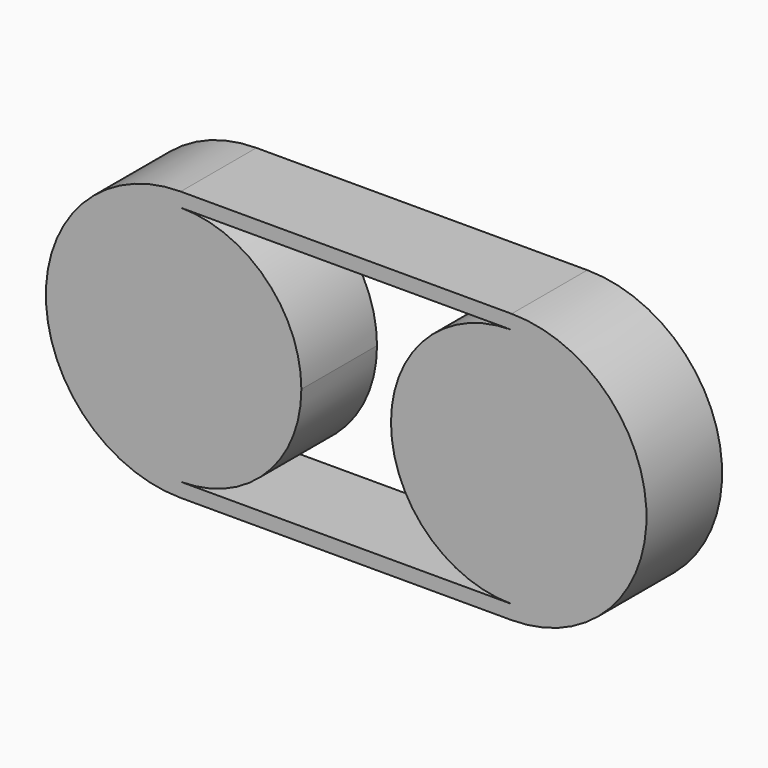
from build123d import *

# Parameters (mm, degrees)
F1_DEPTH = 13.716


with BuildPart() as f1:
    # F0 (on Front) → F1 (new body)
    with BuildSketch(Plane.XZ):
        with BuildLine():
            Line((48, 19.558), (0, 19.558))
            ThreePointArc((0, 19.558), (-19.558, 0), (0, -19.558))
            Line((0, -19.558), (48, -19.558))
            ThreePointArc((48, -19.558), (67.558, 0), (48, 19.558))
        make_face()
        with BuildLine():
            ThreePointArc((0, -17.5), (-17.5, 0), (0, 17.5))
            Line((0, 17.5), (48, 17.5))
            ThreePointArc((48, 17.5), (60.374369, 12.374369), (65.5, 0))
            ThreePointArc((65.5, 0), (60.374369, -12.374369), (48, -17.5))
            Line((48, -17.5), (0, -17.5))
        make_face(mode=Mode.SUBTRACT)
        with BuildLine():
            ThreePointArc((0, -17.5), (12.374369, -12.374369), (17.5, 0))
            ThreePointArc((17.5, 0), (12.374369, 12.374369), (0, 17.5))
            ThreePointArc((0, 17.5), (-17.5, 0), (0, -17.5))
        make_face()
        with BuildLine():
            ThreePointArc((65.5, 0), (60.374369, 12.374369), (48, 17.5))
            ThreePointArc((48, 17.5), (30.5, 0), (48, -17.5))
            ThreePointArc((48, -17.5), (60.374369, -12.374369), (65.5, 0))
        make_face()
    extrude(amount=F1_DEPTH)


solid = f1.part
